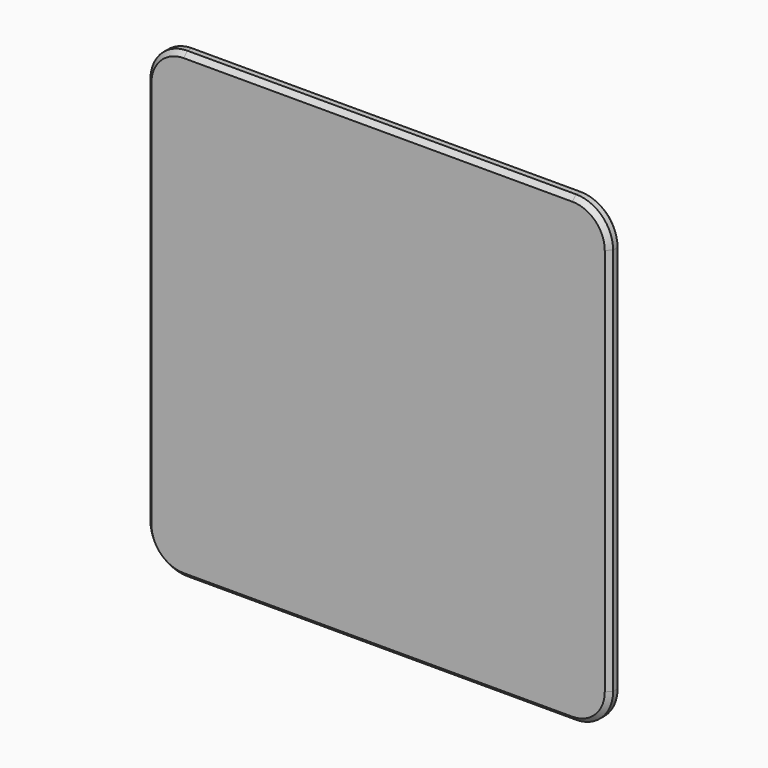
from build123d import *

# Parameters (mm, degrees)
F0_W     = 250
F0_H     = 250
F1_DEPTH = 8
F2_R     = 20
F3_SIZE  = 2.5


with BuildPart() as f1:
    # F0 (on Front) → F1 (new body)
    with BuildSketch(Plane.XZ):
        with Locations((5.8226548135, 13.2943871957)):
            Rectangle(F0_W, F0_H)
    extrude(amount=F1_DEPTH)

    # F2
    f2_edges = [f1.edges().sort_by_distance(p)[0] for p in [
        (-119.177345, -4, -111.705613),
        (130.822655, -4, -111.705613),
        (130.822655, -4, 138.294387),
        (-119.177345, -4, 138.294387),
    ]]
    fillet(f2_edges, radius=F2_R)

    # F3
    f3_edges = [f1.edges().sort_by_distance(p)[0] for p in [
        (5.822655, 0, -111.705613),
        (-113.319481, 0, -105.847748),
        (-119.177345, 0, 13.294387),
        (-113.319481, 0, 132.436523),
        (5.822655, 0, 138.294387),
        (124.96479, 0, 132.436523),
        (124.96479, 0, -105.847748),
        (130.822655, 0, 13.294387),
        (124.96479, -8, -105.847748),
        (5.822655, -8, -111.705613),
    ]]
    chamfer(f3_edges, length=F3_SIZE)


solid = f1.part
